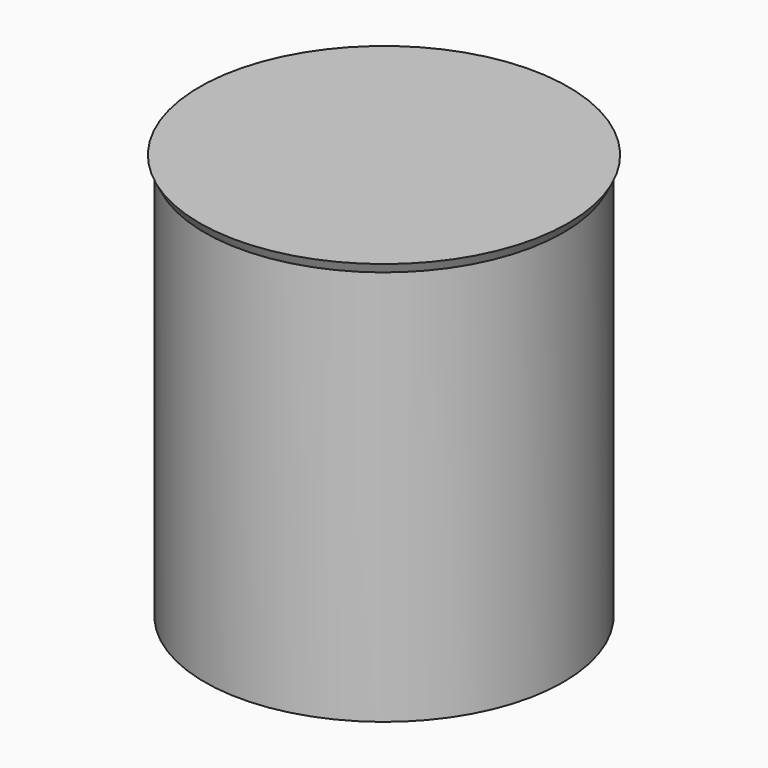
from build123d import *

# Parameters (mm, degrees)
F1_FACE_R = 50.8
F2_DEPTH  = 12.7


with BuildPart() as f1:
    # F0 (on Front) → F1 (revolve)
    with BuildSketch(Plane.XZ):
        Polygon((50.8, 57.893691), (0, 57.893691), (0, -52.459008), (43.18, -52.459008), (43.18, 42.790992), align=None)
    revolve(axis=Axis((0, 0, 2.717342), (0, 0, -1)))

    # F1_face (on face) → F2 (cut)
    with BuildSketch(Plane.XY.offset(57.893691)):
        Circle(F1_FACE_R)
    extrude(amount=-F2_DEPTH, mode=Mode.SUBTRACT)


solid = f1.part
